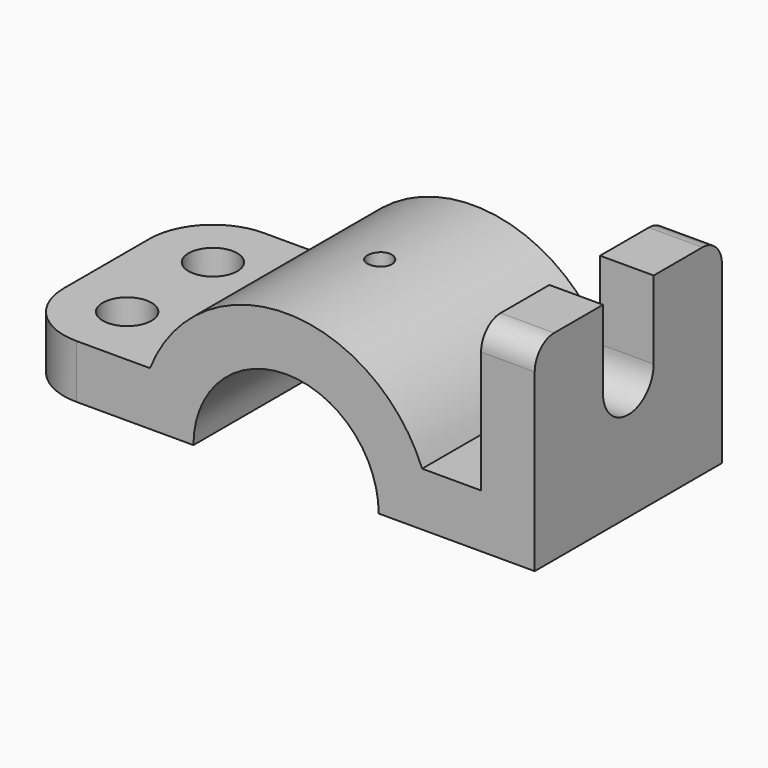
from build123d import *

# Parameters (mm, degrees)
F1_DEPTH = 24
F3_DEPTH = 11
F5_R     = 13
F6_R     = 5
F4_R     = 2.5
F4_R_2   = 5
F7_DEPTH = 38.1


with BuildPart() as f1:
    # F0 (on Front) → F1 (new body, symmetric)
    with BuildSketch(Plane.XZ):
        with BuildLine():
            Line((19, 0), (51, 0))
            Line((51, 0), (51, 41))
            Line((51, 41), (40, 41))
            Line((40, 41), (40, 11))
            Line((40, 11), (27.910571, 11))
            ThreePointArc((27.910571, 11), (0, 30), (-27.910571, 11))
            Line((-27.910571, 11), (-56, 11))
            Line((-56, 11), (-56, 0))
            Line((-56, 0), (-19, 0))
            ThreePointArc((-19, 0), (0, 19), (19, 0))
        make_face()
    extrude(amount=F1_DEPTH, both=True)

    # F2 (on face) → F3 (cut, through all)
    with BuildSketch(Plane.YZ.offset(51)):
        with BuildLine():
            ThreePointArc((6.5, 25), (0, 31.5), (-6.5, 25))
            ThreePointArc((-6.5, 25), (0, 18.5), (6.5, 25))
        make_face()
        with BuildLine():
            Line((6.5, 41), (-6.5, 41))
            Line((-6.5, 41), (-6.5, 25))
            ThreePointArc((-6.5, 25), (0, 31.5), (6.5, 25))
            Line((6.5, 25), (6.5, 41))
        make_face()
    extrude(amount=-F3_DEPTH, mode=Mode.SUBTRACT)

    # F5
    f5_edges = [f1.edges().sort_by_distance(p)[0] for p in [
        (-56, -24, 5.5),
        (-56, 24, 5.5),
    ]]
    fillet(f5_edges, radius=F5_R)

    # F6
    f6_edges = [f1.edges().sort_by_distance(p)[0] for p in [
        (45.5, -24, 41),
        (45.5, 24, 41),
    ]]
    fillet(f6_edges, radius=F6_R)

    # F4 (on face) → F7 (cut, symmetric)
    with BuildSketch(Plane.XY.offset(11)):
        Circle(F4_R)
        with Locations((-43, -11)):
            Circle(F4_R_2)
        with Locations((-43, 11)):
            Circle(F4_R_2)
    extrude(amount=F7_DEPTH, both=True, mode=Mode.SUBTRACT)


solid = f1.part
